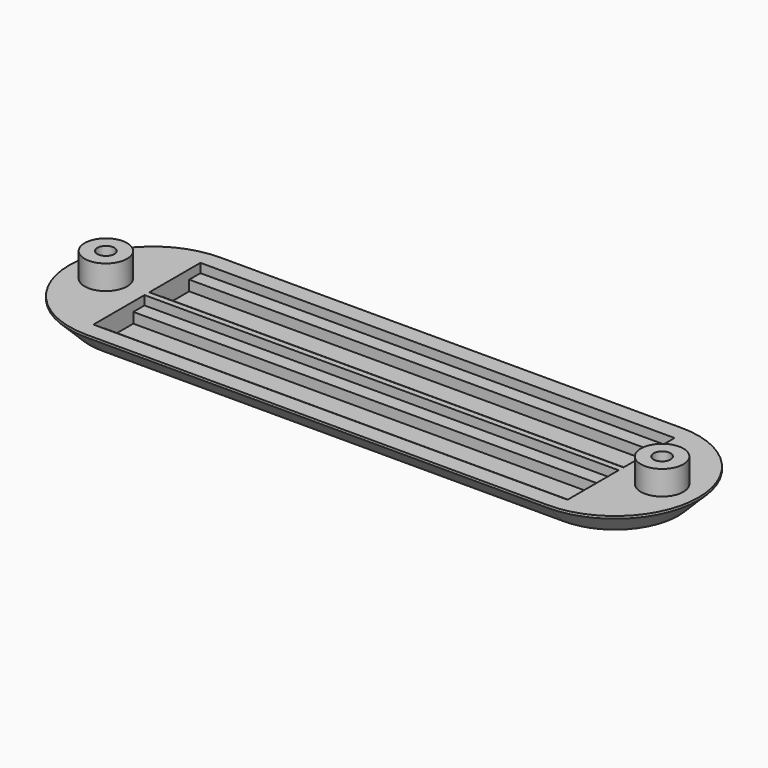
from build123d import *

# Parameters (mm, degrees)
F1_DEPTH  = 3.7
F2_W      = 78
F2_H      = 2.3
F3_DEPTH  = 1.5
F2_H_2    = 5.9
F4_DEPTH  = 3.2
F2_R      = 3.5
F5_DEPTH  = 4
F6_R      = 1.4
F7_DEPTH  = 6.3
F8_R      = 1.4
F9_DEPTH  = 6.3
F10_SIZE  = 3.3
F11_SCALE = 1.1


with BuildPart() as f1:
    # F0 (on Top) → F1 (new body)
    with BuildSketch(Plane.XY):
        with BuildLine():
            ThreePointArc((38, -13.75), (24.25, 0), (38, 13.75))
            Line((38, 13.75), (-38, 13.75))
            ThreePointArc((-38, 13.75), (-28.2772817587, 9.7227182413), (-24.25, 0))
            ThreePointArc((-24.25, 0), (-28.2772817587, -9.7227182413), (-38, -13.75))
            Line((-38, -13.75), (38, -13.75))
        make_face()
        with BuildLine():
            ThreePointArc((-24.25, 0), (-28.2772817587, 9.7227182413), (-38, 13.75))
            Line((-38, 13.75), (-38, -13.75))
            ThreePointArc((-38, -13.75), (-28.2772817587, -9.7227182413), (-24.25, 0))
        make_face()
        with BuildLine():
            Line((-38, -13.75), (-38, 13.75))
            ThreePointArc((-38, 13.75), (-51.75, 0), (-38, -13.75))
        make_face()
        with BuildLine():
            Line((38, -13.75), (38, 13.75))
            ThreePointArc((38, 13.75), (24.25, 0), (38, -13.75))
        make_face()
        with BuildLine():
            ThreePointArc((51.75, 0), (47.7227182413, 9.7227182413), (38, 13.75))
            Line((38, 13.75), (38, -13.75))
            ThreePointArc((38, -13.75), (47.7227182413, -9.7227182413), (51.75, 0))
        make_face()
    extrude(amount=F1_DEPTH)

    # F2 (on face) → F3 (cut)
    with BuildSketch(Plane.XY.offset(3.7)):
        with Locations((0, 9.85)):
            Rectangle(F2_W, F2_H)
        with Locations((0, 1.65)):
            Rectangle(F2_W, F2_H)
        with Locations((0, -1.65)):
            Rectangle(F2_W, F2_H)
        with Locations((0, -9.85)):
            Rectangle(F2_W, F2_H)
    extrude(amount=-F3_DEPTH, mode=Mode.SUBTRACT)

    # F2 (on face) → F4 (cut)
    with BuildSketch(Plane.XY.offset(3.7)):
        with Locations((0, 5.75)):
            Rectangle(F2_W, F2_H_2)
        with Locations((0, -5.75)):
            Rectangle(F2_W, F2_H_2)
    extrude(amount=-F4_DEPTH, mode=Mode.SUBTRACT)

    # F2 (on face) → F5 (join)
    with BuildSketch(Plane.XY.offset(3.7)):
        with Locations((45.75, 0)):
            Circle(F2_R)
        with Locations((-45.75, 0)):
            Circle(F2_R)
    extrude(amount=F5_DEPTH)

    # F6 (on face) → F7 (cut)
    with BuildSketch(Plane.XY.offset(7.7)):
        with Locations((45.75, 0)):
            Circle(F6_R)
    extrude(amount=-F7_DEPTH, mode=Mode.SUBTRACT)

    # F8 (on face) → F9 (cut)
    with BuildSketch(Plane.XY.offset(7.7)):
        with Locations((-45.75, 0)):
            Circle(F8_R)
    extrude(amount=-F9_DEPTH, mode=Mode.SUBTRACT)

    # F10
    f10_edges = [f1.edges().sort_by_distance(p)[0] for p in [
        (0, 13.75, 0),
    ]]
    chamfer(f10_edges, length=F10_SIZE)


with BuildPart() as f1_1:
    # F11: moved
    add(f1.part.scale(F11_SCALE))


solid = f1_1.part
